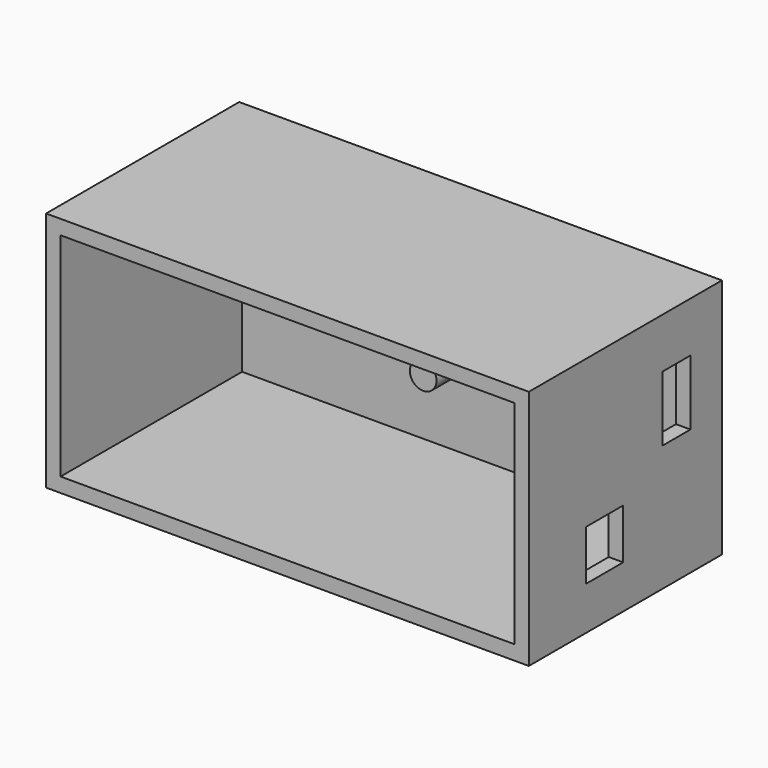
from build123d import *

# Parameters (mm, degrees)
F0_W      = 100
F0_H      = 50
F1_DEPTH  = 50
F2_T      = -3
F3_W      = 7.189277
F3_H      = 13.505568
F4_DEPTH  = 3
F3_W_2    = 9.575039
F3_H_2    = 10.380805
F5_DEPTH  = 3
F6_R      = 2.5
F7_DEPTH  = 5
F6_R_2    = 2.717487
F8_DEPTH  = 5
F6_R_3    = 2.762406
F9_DEPTH  = 5
F6_R_4    = 2.52466
F10_DEPTH = 5


with BuildPart() as f1:
    # F0 (on Front) → F1 (new body)
    with BuildSketch(Plane.XZ):
        with Locations((-9.887868, -10.982526)):
            Rectangle(F0_W, F0_H)
    extrude(amount=F1_DEPTH)

    # F2
    f2_openings = [f1.faces().sort_by_distance(p)[0] for p in [
        (-9.887868, -50, -10.982526),
    ]]
    offset(amount=F2_T, openings=f2_openings)

    # F3 (on face) → F4 (cut)
    with BuildSketch(Plane.YZ.offset(40.112132)):
        with Locations((-11.745577, -3.117744)):
            Rectangle(F3_W, F3_H)
    extrude(amount=-F4_DEPTH, mode=Mode.SUBTRACT)

    # F3 (on face) → F5 (cut)
    with BuildSketch(Plane.YZ.offset(40.112132)):
        with Locations((-30.345603, -21.830169)):
            Rectangle(F3_W_2, F3_H_2)
    extrude(amount=-F5_DEPTH, mode=Mode.SUBTRACT)

    # F6 (on face) → F7 (join)
    with BuildSketch(Plane.XZ.offset(3)):
        with Locations((21.496529, 2.875064)):
            Circle(F6_R)
    extrude(amount=F7_DEPTH)

    # F6 (on face) → F8 (join)
    with BuildSketch(Plane.XZ.offset(3)):
        with Locations((21.496529, -18.16091)):
            Circle(F6_R_2)
    extrude(amount=F8_DEPTH)

    # F6 (on face) → F9 (join)
    with BuildSketch(Plane.XZ.offset(3)):
        with Locations((-15.370856, -18.16091)):
            Circle(F6_R_3)
    extrude(amount=F9_DEPTH)

    # F6 (on face) → F10 (join)
    with BuildSketch(Plane.XZ.offset(3)):
        with Locations((-15.370856, 2.875064)):
            Circle(F6_R_4)
    extrude(amount=F10_DEPTH)


solid = f1.part
